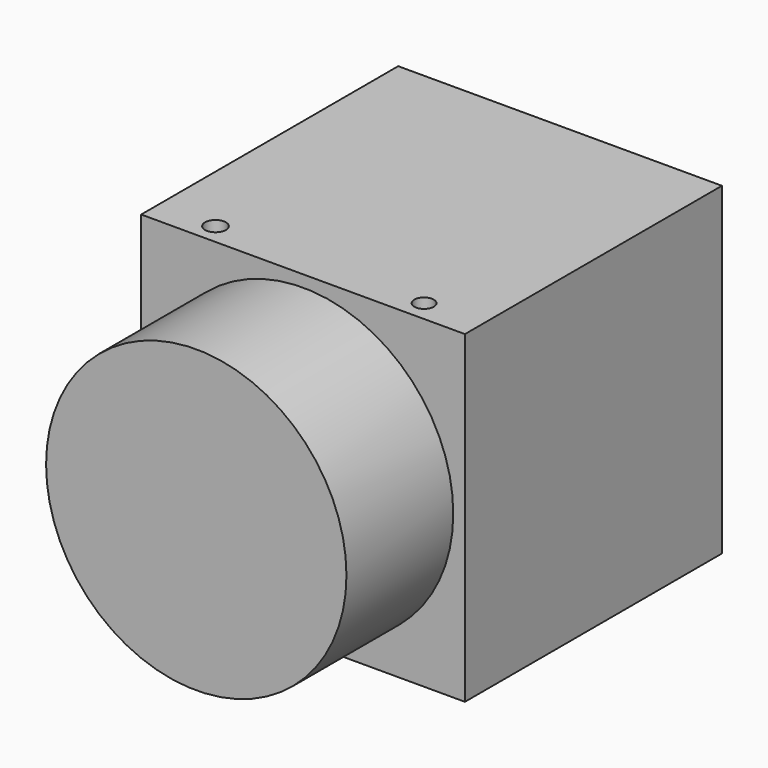
from build123d import *

# Parameters (mm, degrees)
F0_W     = 38.8
F0_H     = 38.8
F0_R     = 18
F1_DEPTH = 38.5
F2_DEPTH = 16
F3_R     = 1.164619
F3_R_2   = 1.25
F4_DEPTH = 3


with BuildPart() as f1:
    # F0 (on Front) → F1 (new body)
    with BuildSketch(Plane.XZ):
        Rectangle(F0_W, F0_H)
        Circle(F0_R, mode=Mode.SUBTRACT)
        Circle(F0_R)
    extrude(amount=-F1_DEPTH)

    # F0 (on Front) → F2 (join)
    with BuildSketch(Plane.XZ):
        Circle(F0_R)
    extrude(amount=F2_DEPTH)

    # F3 (on face) → F4 (cut)
    with BuildSketch(Plane.XY.offset(19.4)):
        with Locations((12.5, 2.5)):
            Circle(F3_R)
        with Locations((-12.5, 2.5)):
            Circle(F3_R_2)
    extrude(amount=-F4_DEPTH, mode=Mode.SUBTRACT)


solid = f1.part
